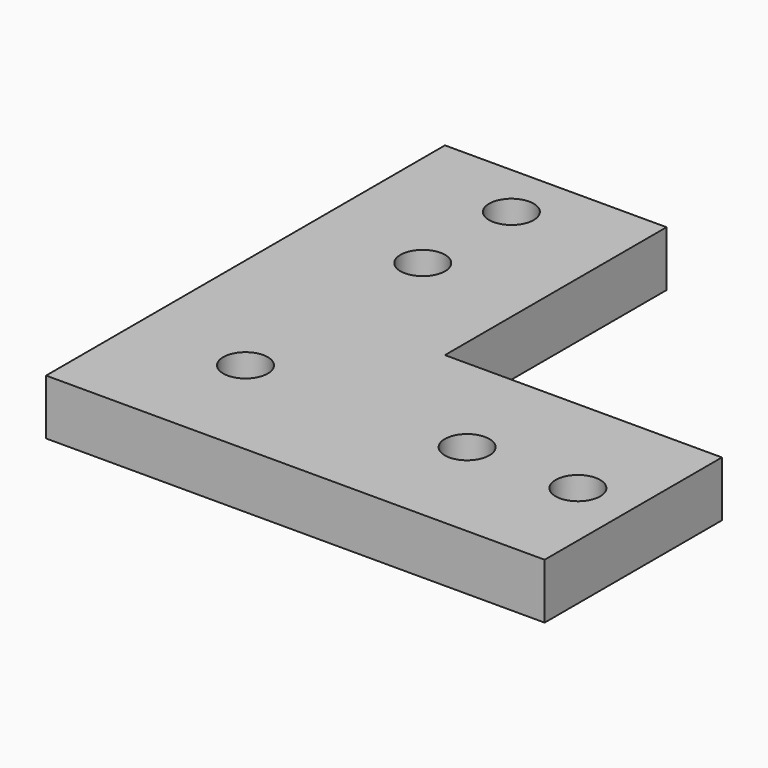
from build123d import *

# Parameters (mm, degrees)
F0_R     = 2.01
F1_DEPTH = 5


with BuildPart() as f1:
    # F0 (on Top) → F1 (new body)
    with BuildSketch(Plane.XY):
        Polygon((0, 45), (0, 0), (45, 0), (45, 20), (20, 20), (20, 45), align=None)
        with Locations((10, 10)):
            Circle(F0_R, mode=Mode.SUBTRACT)
        with Locations((30, 10)):
            Circle(F0_R, mode=Mode.SUBTRACT)
        with Locations((40, 10)):
            Circle(F0_R, mode=Mode.SUBTRACT)
        with Locations((10, 30)):
            Circle(F0_R, mode=Mode.SUBTRACT)
        with Locations((10, 40)):
            Circle(F0_R, mode=Mode.SUBTRACT)
    extrude(amount=F1_DEPTH)


solid = f1.part
